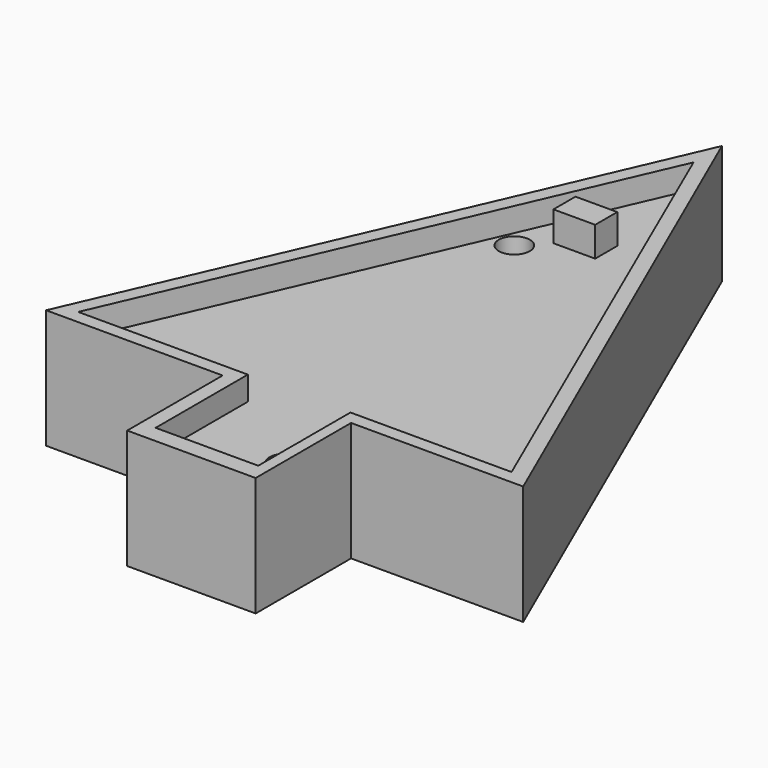
from build123d import *

# Parameters (mm, degrees)
F0_W     = 27.348692
F0_H     = 25.4
F1_DEPTH = 25.4
F2_R     = 3.302
F3_DEPTH = 12.7
F4_R     = 3.302
F5_DEPTH = 12.7
F6_W     = 8.890313
F6_H     = 5.873526
F7_DEPTH = 6.35
F9_DEPTH = 5.08


with BuildPart() as f1:
    # F0 (on Top) → F1 (new body)
    with BuildSketch(Plane.XY):
        Polygon((0, 41.910004), (-50.8, -74.487419), (-13.205145, -74.487419), (14.143547, -74.487419), (50.8, -74.487419), align=None)
        with Locations((0.469201, -87.187419)):
            Rectangle(F0_W, F0_H)
    extrude(amount=F1_DEPTH)

    # F2 (on face) → F3 (cut)
    with BuildSketch(Plane.XY.offset(25.4)):
        with Locations((8.458448, -84.95298)):
            Circle(F2_R)
    extrude(amount=-F3_DEPTH, mode=Mode.SUBTRACT)

    # F4 (on face) → F5 (cut)
    with BuildSketch(Plane.XY.offset(25.4)):
        with Locations((-10.686642, 0)):
            Circle(F4_R)
    extrude(amount=-F5_DEPTH, mode=Mode.SUBTRACT)

    # F6 (on face) → F7 (join)
    with BuildSketch(Plane.XY.offset(25.4)):
        with Locations((4.445156, 0)):
            Rectangle(F6_W, F6_H)
    extrude(amount=F7_DEPTH)

    # F8 (on face) → F9 (cut)
    with BuildSketch(Plane.XY.offset(25.4)):
        Polygon((46.025719, -71.617727), (0, 34.356341), (-46.250875, -71.617727), (-13.205145, -71.617727), (-10.132826, -71.617727), (-10.132826, -96.162423), (11.715042, -96.162423), (11.715042, -71.617727), align=None)
    extrude(amount=-F9_DEPTH, mode=Mode.SUBTRACT)


solid = f1.part
